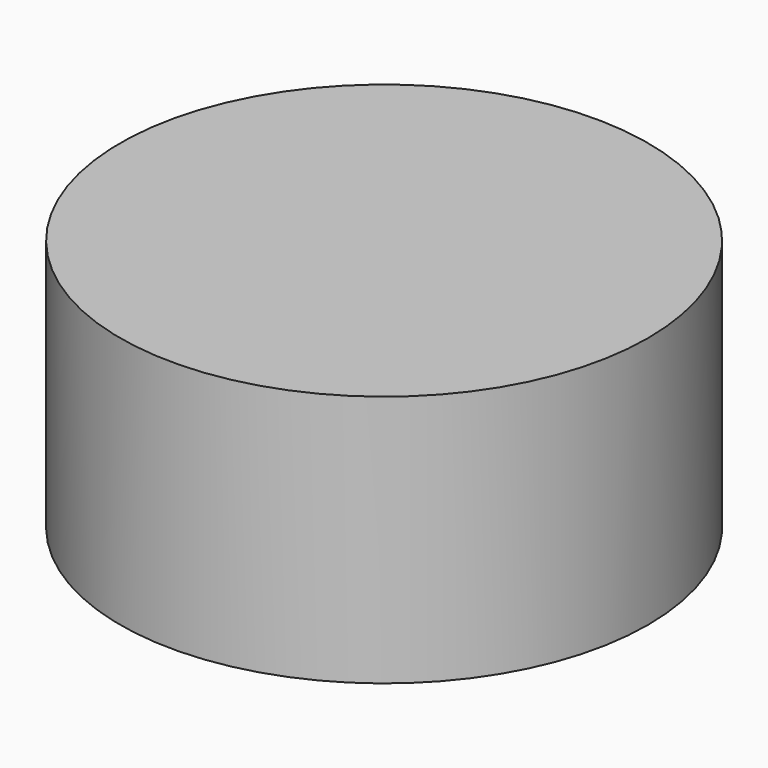
from build123d import *

# Parameters (mm, degrees)
CYLINDER_R     = 15.6845
CYLINDER_DEPTH = 15


with BuildPart() as part:
    # Cylinder → Cylinder (new body)
    with BuildSketch(Plane.XY.offset(-2.5)):
        Circle(CYLINDER_R)
    extrude(amount=CYLINDER_DEPTH)


solid = part.part
